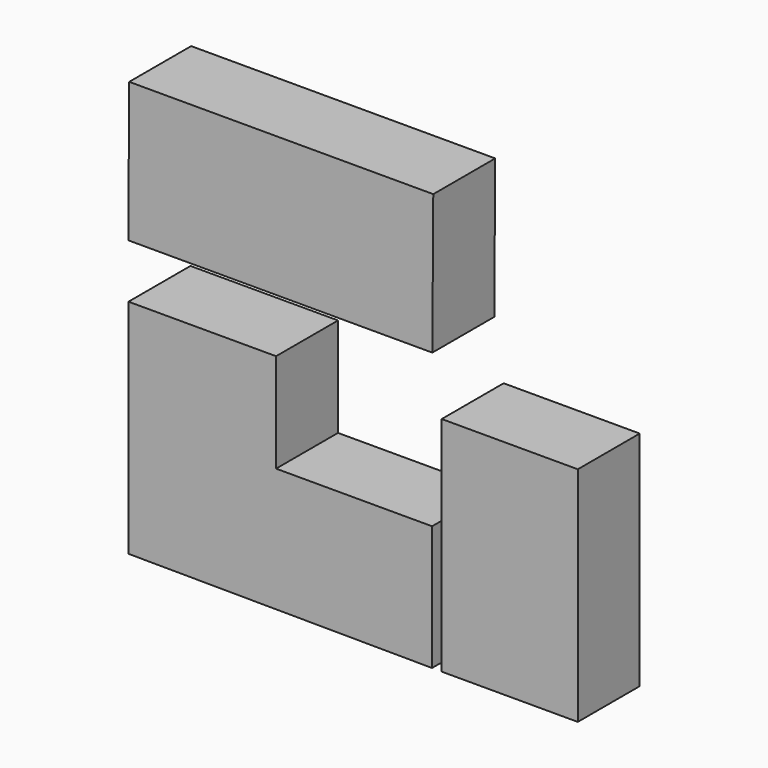
from build123d import *

# Parameters (mm, degrees)
F1_DEPTH = 25.4
F3_DEPTH = 25.4
F4_W     = 44.644367
F4_H     = 72.970451
F5_DEPTH = 25.4


with BuildPart() as f1:
    # F0 (on Front) → F1 (new body)
    with BuildSketch(Plane.XZ):
        Polygon((-27.949372, -2.263505), (-76.368704, -2.263505), (-76.368704, -75.089335), (23.225535, -75.679816), (23.225535, -34.739889), (-27.949372, -34.739889), align=None)
    extrude(amount=F1_DEPTH)


with BuildPart() as f3:
    # F2 (on Front) → F3 (new body)
    with BuildSketch(Plane.XZ):
        Polygon((23.623349, 61.310526), (-76.133728, 61.310526), (-76.441623, 15.434587), (23.315458, 15.434587), align=None)
    extrude(amount=F3_DEPTH)


with BuildPart() as f5:
    # F4 (on Front) → F5 (new body)
    with BuildSketch(Plane.XZ):
        with Locations((48.716561, -39.216279)):
            Rectangle(F4_W, F4_H)
    extrude(amount=F5_DEPTH)


solid = Compound([f1.part, f3.part, f5.part])
